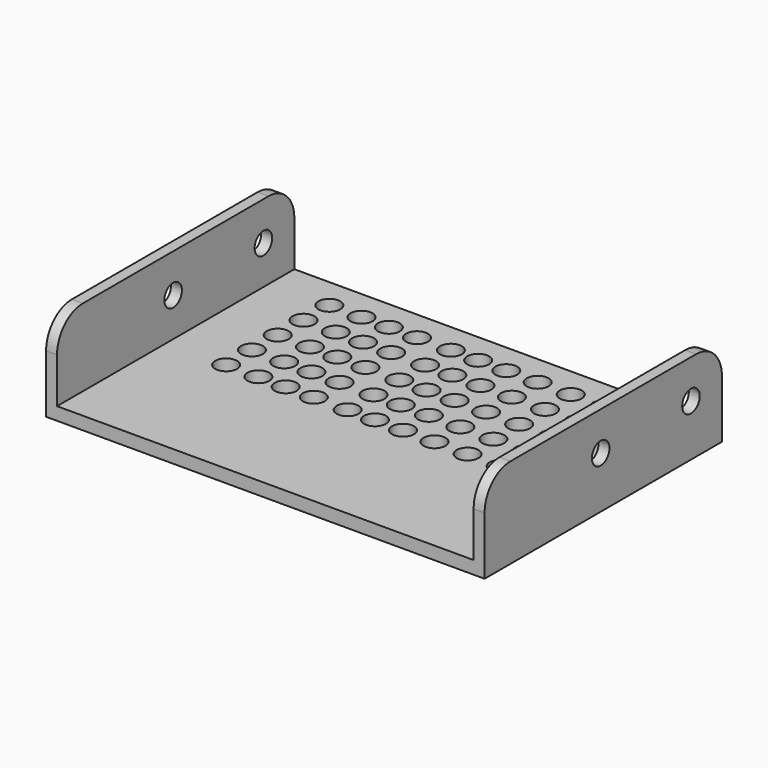
from build123d import *

# Parameters (mm, degrees)
F0_W      = 68
F0_H      = 29.5
F1_DEPTH  = 2
F2_W      = 1.9
F2_H      = 29.5
F3_DEPTH  = 12
F5_D      = 3.4
F7_D      = 3.4
F8_DEPTH  = 16.5
F9_DEPTH  = 0.2
F10_DEPTH = 0.2
F11_R     = 5


with BuildPart() as f1:
    # F0 (on Top) → F1 (new body)
    with BuildSketch(Plane.XY):
        Rectangle(F0_W, F0_H)
    extrude(amount=F1_DEPTH)

    # F2 (on face) → F3 (join)
    with BuildSketch(Plane.XY.offset(2)):
        with Locations((-33.05, 0)):
            Rectangle(F2_W, F2_H)
        with Locations((33.05, 0)):
            Rectangle(F2_W, F2_H)
    extrude(amount=F3_DEPTH)

    # F5 (through all)
    with Locations(Plane.YZ.offset(34)):
        with Locations((-8.75, 8), (8.75, 8)):
            Hole(F5_D / 2)

    # F7 (through all)
    with Locations(Plane(origin=(0, 0, 0), x_dir=(1, 0, 0), z_dir=(0, 0, -1))):
        with Locations((-23.0769233018, -10), (-18.076922571, -10), (-13.8461533964, -10), (-9.4871796933, -10), (-4.2307691746, -10), (0, -10), (4.3589744339, -10), (9.2307691746, -10), (14.3589744339, -10), (19.4871789625, -10), (23.5897428777, -10), (23.5897428777, -5), (19.4871789625, -5), (14.3589744339, -5), (9.2307691746, -5), (4.3589744339, -5), (0, -5), (-4.2307691746, -5), (-9.4871796933, -5), (-13.8461533964, -5), (-18.076922571, -5), (-23.0769233018, -5), (-23.0769233018, 0), (-18.076922571, 0), (-13.8461533964, 0), (-9.4871796933, 0), (-4.2307691746, 0), (0, 0), (14.3589744339, 0), (4.3589744339, 0), (9.2307691746, 0), (19.4871789625, 0), (23.5897428777, 0), (23.5897428777, 5), (19.4871789625, 5), (14.3589744339, 5), (9.2307691746, 5), (4.3589744339, 5), (0, 5), (-4.2307691746, 5), (-9.4871796933, 5), (-13.8461533964, 5), (-18.076922571, 5), (-23.0769233018, 5), (-23.0769233018, 10), (-18.076922571, 10), (-13.8461533964, 10), (-9.4871796933, 10), (-4.2307691746, 10), (0, 10), (4.3589744339, 10), (9.2307691746, 10), (14.3589744339, 10), (19.4871789625, 10), (23.5897428777, 10)):
            Hole(F7_D / 2)

    # F8 (add): a face of the model
    f8_faces = [f1.faces().sort_by_distance(p)[0] for p in [
        (-33.3057378017, -14.75, 7),
    ]]
    extrude(f8_faces, amount=F8_DEPTH)

    # F9 (cut): a face of the model
    f9_faces = [f1.faces().sort_by_distance(p)[0] for p in [
        (-32.1, -8.25, 2.475394573),
    ]]
    extrude(f9_faces, amount=-F9_DEPTH, mode=Mode.SUBTRACT)

    # F10 (cut): a face of the model
    f10_faces = [f1.faces().sort_by_distance(p)[0] for p in [
        (32.1, 14.274605427, 8),
    ]]
    extrude(f10_faces, amount=-F10_DEPTH, mode=Mode.SUBTRACT)

    # F11
    f11_edges = [f1.edges().sort_by_distance(p)[0] for p in [
        (-33.15, -31.25, 14),
        (33.15, -31.25, 14),
        (-33.15, 14.75, 14),
        (33.15, 14.75, 14),
    ]]
    fillet(f11_edges, radius=F11_R)


solid = f1.part
